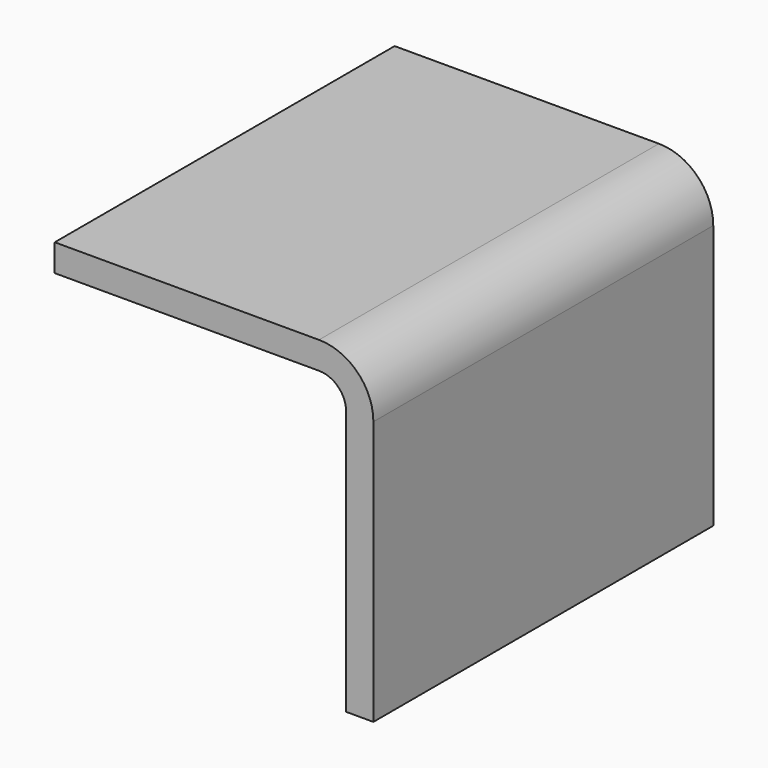
from build123d import *

# Parameters (mm, degrees)
F1_DEPTH = 25.4
F2_R     = 1.6256
F3_R     = 3.2512


with BuildPart() as f1:
    # F0 (on Front) → F1 (new body)
    with BuildSketch(Plane.XZ):
        Polygon((-1.6256, 0), (0, 0), (0, 19.05), (-19.05, 19.05), (-19.05, 17.4244), (-1.6256, 17.4244), align=None)
    extrude(amount=F1_DEPTH)

    # F2
    f2_edges = [f1.edges().sort_by_distance(p)[0] for p in [
        (-1.6256, -12.7, 17.4244),
    ]]
    fillet(f2_edges, radius=F2_R)

    # F3
    f3_edges = [f1.edges().sort_by_distance(p)[0] for p in [
        (0, -12.7, 19.05),
    ]]
    fillet(f3_edges, radius=F3_R)


solid = f1.part
